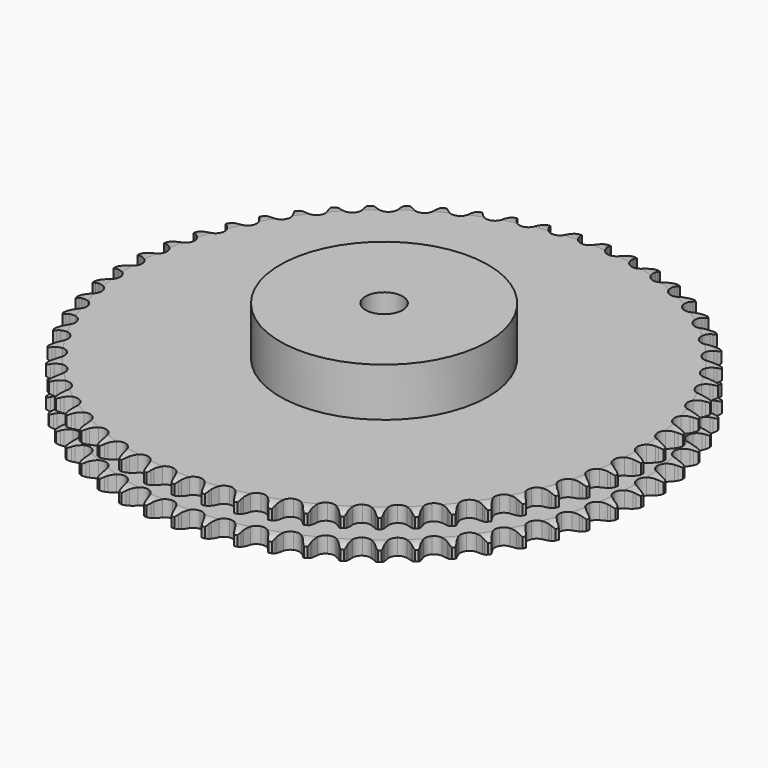
from build123d import *

# Parameters (mm, degrees)
PAD_DEPTH         = 30.3
SKETCH001_R       = 70
PAD001_DEPTH      = 63
SKETCH002_R       = 12.5
POCKET_DEPTH      = 0.001
POCKET_DEPTH_BACK = 63.001


with BuildPart() as part:
    # Sprocket → Pad (new body)
    with BuildSketch(Plane.XY):
        with BuildLine():
            ThreePointArc((-9.860068, 178.71657), (-8.574359, 177.050833), (-7.676953, 175.147575))
            Line((-7.676953, 175.147575), (-7.090891, 173.448908))
            ThreePointArc((-7.090891, 173.448908), (-6.166422, 171.301228), (-4.934356, 169.313973))
            ThreePointArc((-4.934356, 169.313973), (-2.768331, 167.466592), (0, 166.802647))
            ThreePointArc((0, 166.802647), (2.768331, 167.466592), (4.934356, 169.313973))
            ThreePointArc((4.934356, 169.313973), (6.166422, 171.301228), (7.090891, 173.448908))
            Line((7.090891, 173.448908), (7.676953, 175.147575))
            ThreePointArc((7.676953, 175.147575), (8.574359, 177.050833), (9.860068, 178.71657))
            ThreePointArc((9.860068, 178.71657), (10.954728, 176.919504), (11.637314, 174.929076))
            Line((11.637314, 174.929076), (12.032951, 173.176247))
            ThreePointArc((12.032951, 173.176247), (12.715547, 170.939903), (13.721521, 168.829171))
            ThreePointArc((13.721521, 168.829171), (15.671173, 166.754723), (18.349662, 165.790268))
            ThreePointArc((18.349662, 165.790268), (21.174231, 166.145644), (23.530336, 167.743532))
            Line((23.530336, 167.743532), (26.12866, 171.616134))
            ThreePointArc((26.12866, 171.616134), (26.490182, 172.439052), (26.898032, 173.24002))
            ThreePointArc((26.898032, 173.24002), (27.999366, 175.033004), (29.460516, 176.547193))
            ThreePointArc((29.460516, 176.547193), (30.35084, 174.640612), (30.81032, 172.587175))
            Line((30.81032, 172.587175), (31.01073, 170.801461))
            ThreePointArc((31.01073, 170.801461), (31.443167, 168.503599), (32.210838, 166.295013))
            ThreePointArc((32.210838, 166.295013), (33.92045, 164.018676), (36.476585, 162.76542))
            ThreePointArc((36.476585, 162.76542), (39.323104, 162.807913), (41.840691, 164.136912))
            Line((41.840691, 164.136912), (44.849262, 167.700173))
            ThreePointArc((44.849262, 167.700173), (45.299118, 168.478326), (45.792606, 169.229566))
            ThreePointArc((45.792606, 169.229566), (47.084498, 170.890512), (48.703353, 172.234772))
            ThreePointArc((48.703353, 172.234772), (49.378534, 170.24182), (49.60933, 168.150299))
            Line((49.60933, 168.150299), (49.612081, 166.353376))
            ThreePointArc((49.612081, 166.353376), (49.78911, 164.021889), (50.309158, 161.742257))
            ThreePointArc((50.309158, 161.742257), (51.757979, 159.291666), (54.160731, 157.76482))
            ThreePointArc((54.160731, 157.76482), (56.994649, 157.493915), (59.643156, 158.537892))
            Line((59.643156, 158.537892), (63.025455, 161.748559))
            ThreePointArc((63.025455, 161.748559), (63.558184, 162.472501), (64.131319, 163.164894))
            ThreePointArc((64.131319, 163.164894), (65.598088, 164.67364), (67.354998, 165.831654))
            ThreePointArc((67.354998, 165.831654), (67.80684, 163.776523), (67.80615, 161.672306))
            Line((67.80615, 161.672306), (67.611208, 159.885987))
            ThreePointArc((67.611208, 159.885987), (67.53068, 157.549176), (67.796794, 155.226171))
            ThreePointArc((67.796794, 155.226171), (68.967235, 152.63107), (71.187439, 150.849168))
            ThreePointArc((71.187439, 150.849168), (73.974355, 150.268153), (76.721634, 151.014437))
            Line((76.721634, 151.014437), (80.436605, 153.833536))
            ThreePointArc((80.436605, 153.833536), (81.04574, 154.49448), (81.691565, 155.119621))
            ThreePointArc((81.691565, 155.119621), (83.315407, 156.457854), (85.189044, 157.415565))
            ThreePointArc((85.189044, 157.415565), (85.412062, 155.3232), (85.179896, 153.231831))
            Line((85.179896, 153.231831), (84.789627, 151.477799))
            ThreePointArc((84.789627, 151.477799), (84.452519, 149.164029), (84.461468, 146.825848))
            ThreePointArc((84.461468, 146.825848), (85.339324, 144.11774), (87.350028, 142.102412))
            ThreePointArc((87.350028, 142.102412), (90.056113, 141.21834), (92.868815, 141.657871))
            Line((92.868815, 141.657871), (96.871363, 144.051183))
            ThreePointArc((96.871363, 144.051183), (97.54951, 144.641106), (98.260186, 145.191406))
            ThreePointArc((98.260186, 145.191406), (100.021389, 146.342881), (101.98901, 147.088664))
            ThreePointArc((101.98901, 147.088664), (101.980498, 144.984465), (101.519673, 142.931329))
            Line((101.519673, 142.931329), (100.938815, 141.230875))
            ThreePointArc((100.938815, 141.230875), (100.349219, 138.968233), (100.100895, 136.643259))
            ThreePointArc((100.100895, 136.643259), (100.675508, 133.855016), (102.452306, 131.630726))
            ThreePointArc((102.452306, 131.630726), (105.044712, 130.454328), (107.888695, 130.581771))
            Line((107.888695, 130.581771), (112.130234, 132.520244))
            ThreePointArc((112.130234, 132.520244), (112.869161, 133.031984), (113.636062, 133.500764))
            ThreePointArc((113.636062, 133.500764), (115.513247, 134.451504), (117.550968, 134.976306))
            ThreePointArc((117.550968, 134.976306), (117.311028, 132.885814), (116.627138, 130.895834))
            Line((116.627138, 130.895834), (115.862742, 129.2696))
            ThreePointArc((115.862742, 129.2696), (115.027815, 127.085551), (114.525232, 124.802005))
            ThreePointArc((114.525232, 124.802005), (114.789628, 121.967473), (116.310952, 119.561221))
            ThreePointArc((116.310952, 119.561221), (118.75821, 118.106777), (121.598952, 117.920585))
            Line((121.598952, 117.920585), (126.027995, 119.380688))
            ThreePointArc((126.027995, 119.380688), (126.818734, 119.808034), (127.63255, 120.189604))
            ThreePointArc((127.63255, 120.189604), (129.60293, 120.928067), (131.686017, 121.225518))
            ThreePointArc((131.686017, 121.225518), (131.217562, 119.17411), (130.318908, 117.271441))
            Line((130.318908, 117.271441), (129.380252, 115.739167))
            ThreePointArc((129.380252, 115.739167), (128.310129, 113.660223), (127.559388, 111.445825))
            ThreePointArc((127.559388, 111.445825), (127.510357, 108.59941), (128.757741, 106.040404))
            ThreePointArc((128.757741, 106.040404), (131.030145, 104.325569), (133.833162, 103.828002))
            Line((133.833162, 103.828002), (138.395948, 104.792013))
            ThreePointArc((138.395948, 104.792013), (139.228899, 105.129778), (140.079751, 105.419505))
            ThreePointArc((140.079751, 105.419505), (142.11941, 105.936728), (144.222576, 106.003217))
            ThreePointArc((144.222576, 106.003217), (143.531292, 104.015793), (142.428783, 102.223531))
            Line((142.428783, 102.223531), (141.327261, 100.803817))
            ThreePointArc((141.327261, 100.803817), (140.034933, 98.855213), (139.045146, 96.736843))
            ThreePointArc((139.045146, 96.736843), (138.683284, 93.913098), (139.641585, 91.232401))
            ThreePointArc((139.641585, 91.232401), (141.711551, 89.27799), (144.442819, 88.475088))
            Line((144.442819, 88.475088), (149.083961, 88.931304))
            ThreePointArc((149.083961, 88.931304), (149.949013, 89.175388), (150.826574, 89.369756))
            ThreePointArc((150.826574, 89.369756), (152.910752, 89.659461), (155.008468, 89.49418))
            ThreePointArc((155.008468, 89.49418), (154.102747, 87.594866), (152.809766, 85.934767))
            Line((152.809766, 85.934767), (151.558749, 84.644846))
            ThreePointArc((151.558749, 84.644846), (150.059902, 82.850235), (148.843084, 80.853607))
            ThreePointArc((148.843084, 80.853607), (148.172783, 78.086808), (148.830369, 75.316959))
            ThreePointArc((148.830369, 75.316959), (150.67277, 73.146698), (153.299136, 72.048207))
            Line((153.299136, 72.048207), (157.962297, 71.99109))
            ThreePointArc((157.962297, 71.99109), (158.84895, 72.138529), (159.742567, 72.235179))
            ThreePointArc((159.742567, 72.235179), (161.845965, 72.293849), (163.912767, 71.898806))
            ThreePointArc((163.912767, 71.898806), (162.803603, 70.110655), (161.335845, 68.60287))
            Line((161.335845, 68.60287), (159.950519, 67.4584))
            ThreePointArc((159.950519, 67.4584), (158.263347, 65.839567), (156.834268, 63.988917))
            ThreePointArc((156.834268, 63.988917), (155.863665, 61.312649), (156.212554, 58.487272))
            ThreePointArc((156.212554, 58.487272), (157.805027, 56.127503), (160.294609, 54.746758))
            Line((160.294609, 54.746758), (164.923185, 54.177002))
            ThreePointArc((164.923185, 54.177002), (165.820676, 54.226007), (166.719501, 54.223765))
            ThreePointArc((166.719501, 54.223765), (168.816587, 54.050687), (170.827387, 53.430677))
            ThreePointArc((170.827387, 53.430677), (169.528244, 51.775396), (167.903525, 50.438228))
            Line((167.903525, 50.438228), (166.400706, 49.453101))
            ThreePointArc((166.400706, 49.453101), (164.545689, 48.029697), (162.921698, 46.347489))
            ThreePointArc((162.921698, 46.347489), (161.662574, 43.794239), (161.69853, 40.947629))
            ThreePointArc((161.69853, 40.947629), (163.021744, 38.426997), (165.344323, 36.780757))
            Line((165.344323, 36.780757), (169.882128, 35.705278))
            ThreePointArc((169.882128, 35.705278), (170.779563, 35.655254), (171.672687, 35.554147))
            ThreePointArc((171.672687, 35.554147), (173.738005, 35.151424), (175.668394, 34.313972))
            ThreePointArc((175.668394, 34.313972), (174.195041, 32.811654), (172.433084, 31.661334))
            Line((172.433084, 31.661334), (170.831015, 30.847509))
            ThreePointArc((170.831015, 30.847509), (168.83067, 29.63681), (167.031478, 28.143465))
            ThreePointArc((167.031478, 28.143465), (165.499118, 25.744225), (165.221706, 22.910937))
            ThreePointArc((165.221706, 22.910937), (166.259598, 20.260039), (168.386981, 18.368288))
            Line((168.386981, 18.368288), (172.778933, 16.80014))
            ThreePointArc((172.778933, 16.80014), (173.665418, 16.651695), (174.541998, 16.452951))
            ThreePointArc((174.541998, 16.452951), (176.550479, 15.825469), (178.377025, 14.780742))
            ThreePointArc((178.377025, 14.780742), (176.747347, 13.449623), (174.869539, 12.500115))
            Line((174.869539, 12.500115), (173.187666, 11.867469))
            ThreePointArc((173.187666, 11.867469), (171.066275, 10.884173), (169.113723, 9.597817))
            ThreePointArc((169.113723, 9.597817), (167.326727, 7.381712), (166.739313, 4.596137))
            ThreePointArc((166.739313, 4.596137), (167.479286, 1.847152), (169.385648, -0.267147))
            Line((169.385648, -0.267147), (173.578435, -2.308928))
            ThreePointArc((173.578435, -2.308928), (174.44321, -2.553993), (175.292606, -2.847962))
            ThreePointArc((175.292606, -2.847962), (177.219869, -3.692584), (178.9204, -4.931907))
            ThreePointArc((178.9204, -4.931907), (177.154179, -6.075668), (175.183315, -6.81284))
            Line((175.183315, -6.81284), (173.442053, -7.256625))
            ThreePointArc((173.442053, -7.256625), (171.225367, -8.000583), (169.143156, -9.064335))
            ThreePointArc((169.143156, -9.064335), (167.123216, -11.070406), (166.232931, -13.774453))
            ThreePointArc((166.232931, -13.774453), (166.666002, -16.588157), (168.328204, -18.899339))
            Line((168.328204, -18.899339), (172.270931, -21.38997))
            ThreePointArc((172.270931, -21.38997), (173.103497, -21.72868), (173.9154, -22.114305))
            ThreePointArc((173.9154, -22.114305), (175.738049, -23.165815), (177.291924, -24.584688))
            ThreePointArc((177.291924, -24.584688), (175.4106, -25.527209), (173.370603, -26.043095))
            Line((173.370603, -26.043095), (171.591089, -26.292634))
            ThreePointArc((171.591089, -26.292634), (169.306015, -26.788223), (167.11942, -27.616458))
            ThreePointArc((167.11942, -27.616458), (164.891055, -29.388144), (163.708707, -31.977841))
            ThreePointArc((163.708707, -31.977841), (163.829619, -34.822109), (165.227483, -37.30212))
            Line((165.227483, -37.30212), (168.87229, -40.211366))
            ThreePointArc((168.87229, -40.211366), (169.662543, -40.639609), (170.427096, -41.112209))
            ThreePointArc((170.427096, -41.112209), (172.123008, -42.357845), (173.511365, -43.939045))
            ThreePointArc((173.511365, -43.939045), (171.537774, -44.668884), (169.453406, -44.957223))
            Line((169.453406, -44.957223), (167.657241, -45.009486))
            ThreePointArc((167.657241, -45.009486), (165.331517, -45.25069), (163.067081, -45.833355))
            ThreePointArc((163.067081, -45.833355), (160.657341, -47.349149), (159.197281, -49.793061))
            ThreePointArc((159.197281, -49.793061), (159.004565, -52.633367), (160.121124, -55.252102))
            Line((160.121124, -55.252102), (163.423769, -58.54465))
            ThreePointArc((163.423769, -58.54465), (164.162115, -59.057229), (164.870038, -59.611068))
            ThreePointArc((164.870038, -59.611068), (166.418627, -61.035707), (167.624612, -62.760041))
            ThreePointArc((167.624612, -62.760041), (165.582711, -63.26834), (163.479275, -63.325631))
            Line((163.479275, -63.325631), (161.688262, -63.179984))
            ThreePointArc((161.688262, -63.179984), (159.350119, -63.163875), (157.035328, -63.493897))
            ThreePointArc((157.035328, -63.493897), (154.473464, -64.7354), (152.753415, -67.00386))
            ThreePointArc((152.753415, -67.00386), (152.249412, -69.805727), (153.071112, -72.5314))
            Line((153.071112, -72.5314), (155.991505, -76.167282))
            ThreePointArc((155.991505, -76.167282), (156.668982, -76.757973), (157.311681, -77.386329))
            ThreePointArc((157.311681, -77.386329), (158.694149, -78.972679), (159.703124, -80.819216))
            ThreePointArc((159.703124, -80.819216), (157.617699, -81.099803), (155.520726, -80.925351))
            Line((155.520726, -80.925351), (153.756606, -80.583562))
            ThreePointArc((153.756606, -80.583562), (151.434426, -80.310336), (149.09738, -80.383709))
            ThreePointArc((149.09738, -80.383709), (146.414489, -81.335851), (144.45533, -83.401324))
            ThreePointArc((144.45533, -83.401324), (143.646158, -86.130741), (144.163024, -88.930264))
            Line((144.163024, -88.930264), (146.665715, -92.865346))
            ThreePointArc((146.665715, -92.865346), (147.274099, -93.526981), (147.843773, -94.222224))
            ThreePointArc((147.843773, -94.222224), (149.043339, -95.951029), (149.843056, -97.897354))
            ThreePointArc((149.843056, -97.897354), (147.739421, -97.946825), (145.674367, -97.542747))
            Line((145.674367, -97.542747), (143.958553, -97.008965))
            ThreePointArc((143.958553, -97.008965), (141.680525, -96.481938), (139.349591, -96.297772))
            ThreePointArc((139.349591, -96.297772), (136.578239, -96.948995), (134.403753, -98.786408))
            ThreePointArc((134.403753, -98.786408), (133.299233, -101.410244), (133.504992, -104.249635))
            Line((133.504992, -104.249635), (135.559602, -108.43615))
            ThreePointArc((135.559602, -108.43615), (136.091508, -109.160697), (136.581242, -109.914389))
            ThreePointArc((136.581242, -109.914389), (137.583345, -111.764664), (138.164096, -113.787152))
            ThreePointArc((138.164096, -113.787152), (136.067787, -113.604905), (134.059718, -112.976107))
            Line((134.059718, -112.976107), (132.413039, -112.256811))
            ThreePointArc((132.413039, -112.256811), (130.206813, -111.482381), (127.910286, -111.04291))
            ThreePointArc((127.910286, -111.04291), (125.084116, -111.38531), (122.720696, -112.972359))
            ThreePointArc((122.720696, -112.972359), (121.334237, -115.458764), (121.22639, -118.303557))
            Line((121.22639, -118.303557), (122.807979, -122.690687))
            ThreePointArc((122.807979, -122.690687), (123.256951, -123.46935), (123.6608, -124.272343))
            ThreePointArc((123.6608, -124.272343), (124.453275, -126.221627), (124.808011, -128.295727))
            ThreePointArc((124.808011, -128.295727), (122.744474, -127.883975), (120.817766, -127.03809))
            Line((120.817766, -127.03809), (119.260209, -126.142011))
            ThreePointArc((119.260209, -126.142011), (117.152568, -125.129578), (114.918325, -124.440138))
            ThreePointArc((114.918325, -124.440138), (112.07164, -124.469557), (109.547976, -125.786979))
            ThreePointArc((109.547976, -125.786979), (107.896407, -128.105771), (107.476264, -130.921434))
            Line((107.476264, -130.921434), (108.565633, -135.455925))
            ThreePointArc((108.565633, -135.455925), (108.926221, -136.279253), (109.239283, -137.121799))
            ThreePointArc((109.239283, -137.121799), (109.812512, -139.146431), (109.936927, -141.246966))
            ThreePointArc((109.936927, -141.246966), (107.931209, -140.610707), (106.109249, -139.558002))
            Line((106.109249, -139.558002), (104.659722, -138.496018))
            ThreePointArc((104.659722, -138.496018), (102.676249, -137.257872), (100.53141, -136.326831))
            ThreePointArc((100.53141, -136.326831), (97.698767, -136.042913), (95.045492, -137.074715))
            ThreePointArc((95.045492, -137.074715), (93.148861, -139.197747), (92.421522, -141.950102))
            Line((92.421522, -141.950102), (93.005448, -146.576911))
            ThreePointArc((93.005448, -146.576911), (93.273275, -147.43491), (93.49175, -148.306781))
            ThreePointArc((93.49175, -148.306781), (93.838773, -150.382186), (93.731357, -152.483659))
            ThreePointArc((93.731357, -152.483659), (91.807806, -151.630616), (90.112711, -150.383869))
            Line((90.112711, -150.383869), (88.788808, -149.16887))
            ThreePointArc((88.788808, -149.16887), (86.953579, -147.720041), (84.92418, -146.558701))
            ThreePointArc((84.92418, -146.558701), (82.139962, -145.964892), (79.389285, -146.69855))
            ThreePointArc((79.389285, -146.69855), (77.270614, -148.600052), (76.244908, -151.255689))
            Line((76.244908, -151.255689), (76.316303, -155.918653))
            ThreePointArc((76.316303, -155.918653), (76.488117, -156.800907), (76.609353, -157.691521))
            ThreePointArc((76.609353, -157.691521), (76.725958, -159.792504), (76.388015, -161.869406))
            ThreePointArc((76.388015, -161.869406), (74.569981, -160.809934), (73.022326, -159.38428))
            Line((73.022326, -159.38428), (71.840118, -158.031015))
            ThreePointArc((71.840118, -158.031015), (70.175411, -156.389089), (68.286086, -155.011547))
            ThreePointArc((68.286086, -155.011547), (65.58409, -154.115055), (62.769399, -154.541663))
            ThreePointArc((62.769399, -154.541663), (60.454406, -156.198553), (59.142783, -158.725236))
            Line((59.142783, -158.725236), (58.700781, -163.367753))
            ThreePointArc((58.700781, -163.367753), (58.774497, -164.263553), (58.797022, -165.162099))
            ThreePointArc((58.797022, -165.162099), (58.681795, -167.263158), (58.117426, -169.290278))
            ThreePointArc((58.117426, -169.290278), (56.426977, -168.037238), (55.045548, -166.449981))
            Line((55.045548, -166.449981), (54.019387, -164.974878))
            ThreePointArc((54.019387, -164.974878), (52.545408, -163.159786), (50.819091, -161.582763))
            ThreePointArc((50.819091, -161.582763), (48.232116, -160.39447), (45.387578, -160.50885))
            ThreePointArc((45.387578, -160.50885), (42.904364, -161.901015), (41.322746, -164.268073))
            Line((41.322746, -164.268073), (40.372711, -168.83379))
            ThreePointArc((40.372711, -168.83379), (40.347435, -169.732262), (40.270976, -170.627832))
            ThreePointArc((40.270976, -170.627832), (39.925313, -172.703464), (39.14137, -174.656195))
            ThreePointArc((39.14137, -174.656195), (37.599026, -173.224797), (36.400593, -171.495206))
            Line((36.400593, -171.495206), (35.542933, -169.916168))
            ThreePointArc((35.542933, -169.916168), (34.277576, -167.949943), (32.735222, -166.192583))
            ThreePointArc((32.735222, -166.192583), (30.29467, -164.726914), (27.454813, -164.527676))
            ThreePointArc((27.454813, -164.527676), (24.833521, -165.638218), (23.001106, -167.816919))
            Line((23.001106, -167.816919), (21.554571, -172.250413))
            ThreePointArc((21.554571, -172.250413), (21.430609, -173.140652), (21.256094, -174.022375))
            ThreePointArc((21.256094, -174.022375), (20.684193, -176.047383), (19.690191, -177.902023))
            ThreePointArc((19.690191, -177.902023), (18.314673, -176.309642), (17.313783, -174.45871))
            Line((17.313783, -174.45871), (16.635036, -172.794907))
            ThreePointArc((16.635036, -172.794907), (15.593659, -170.701416), (14.253991, -168.78505))
            ThreePointArc((14.253991, -168.78505), (11.989487, -167.059796), (9.188784, -166.54936))
            ThreePointArc((9.188784, -166.54936), (6.461232, -167.364798), (4.400265, -169.328695))
            Line((4.400265, -169.328695), (2.474788, -173.57615))
            ThreePointArc((2.474788, -173.57615), (2.253644, -174.447349), (1.983192, -175.304523))
            ThreePointArc((1.983192, -175.304523), (1.191995, -177.254326), (0, -178.988361))
            ThreePointArc((0, -178.988361), (-1.191995, -177.254326), (-1.983192, -175.304523))
            Line((-1.983192, -175.304523), (-2.474788, -173.57615))
            ThreePointArc((-2.474788, -173.57615), (-3.279543, -171.380804), (-4.400265, -169.328695))
            ThreePointArc((-4.400265, -169.328695), (-6.461232, -167.364798), (-9.188784, -166.54936))
            ThreePointArc((-9.188784, -166.54936), (-11.989487, -167.059796), (-14.253991, -168.78505))
            Line((-14.253991, -168.78505), (-16.635036, -172.794907))
            ThreePointArc((-16.635036, -172.794907), (-16.950676, -173.636491), (-17.313783, -174.45871))
            ThreePointArc((-17.313783, -174.45871), (-18.314673, -176.309642), (-19.690191, -177.902023))
            ThreePointArc((-19.690191, -177.902023), (-20.684193, -176.047383), (-21.256094, -174.022375))
            Line((-21.256094, -174.022375), (-21.554571, -172.250413))
            ThreePointArc((-21.554571, -172.250413), (-22.112935, -169.979862), (-23.001106, -167.816919))
            ThreePointArc((-23.001106, -167.816919), (-24.833521, -165.638218), (-27.454813, -164.527676))
            ThreePointArc((-27.454813, -164.527676), (-30.29467, -164.726914), (-32.735222, -166.192583))
            Line((-32.735222, -166.192583), (-35.542933, -169.916168))
            ThreePointArc((-35.542933, -169.916168), (-35.949239, -170.717921), (-36.400593, -171.495206))
            ThreePointArc((-36.400593, -171.495206), (-37.599026, -173.224797), (-39.14137, -174.656195))
            ThreePointArc((-39.14137, -174.656195), (-39.925313, -172.703464), (-40.270976, -170.627832))
            Line((-40.270976, -170.627832), (-40.372711, -168.83379))
            ThreePointArc((-40.372711, -168.83379), (-40.677907, -166.515595), (-41.322746, -164.268073))
            ThreePointArc((-41.322746, -164.268073), (-42.904364, -161.901015), (-45.387578, -160.50885))
            ThreePointArc((-45.387578, -160.50885), (-48.232116, -160.39447), (-50.819091, -161.582763))
            Line((-50.819091, -161.582763), (-54.019387, -164.974878))
            ThreePointArc((-54.019387, -164.974878), (-54.511426, -165.727067), (-55.045548, -166.449981))
            ThreePointArc((-55.045548, -166.449981), (-56.426977, -168.037238), (-58.117426, -169.290278))
            ThreePointArc((-58.117426, -169.290278), (-58.681795, -167.263158), (-58.797022, -165.162099))
            Line((-58.797022, -165.162099), (-58.700781, -163.367753))
            ThreePointArc((-58.700781, -163.367753), (-58.749104, -161.030054), (-59.142783, -158.725236))
            ThreePointArc((-59.142783, -158.725236), (-60.454406, -156.198553), (-62.769399, -154.541663))
            ThreePointArc((-62.769399, -154.541663), (-65.58409, -154.115055), (-68.286086, -155.011547))
            Line((-68.286086, -155.011547), (-71.840118, -158.031015))
            ThreePointArc((-71.840118, -158.031015), (-72.411918, -158.724511), (-73.022326, -159.38428))
            ThreePointArc((-73.022326, -159.38428), (-74.569981, -160.809934), (-76.388015, -161.869406))
            ThreePointArc((-76.388015, -161.869406), (-76.725958, -159.792504), (-76.609353, -157.691521))
            Line((-76.609353, -157.691521), (-76.316303, -155.918653))
            ThreePointArc((-76.316303, -155.918653), (-76.107167, -153.589826), (-76.244908, -151.255689))
            ThreePointArc((-76.244908, -151.255689), (-77.270614, -148.600052), (-79.389285, -146.69855))
            ThreePointArc((-79.389285, -146.69855), (-82.139962, -145.964892), (-84.92418, -146.558701))
            Line((-84.92418, -146.558701), (-88.788808, -149.16887))
            ThreePointArc((-88.788808, -149.16887), (-89.433428, -149.795255), (-90.112711, -150.383869))
            ThreePointArc((-90.112711, -150.383869), (-91.807806, -151.630616), (-93.731357, -152.483659))
            ThreePointArc((-93.731357, -152.483659), (-93.838773, -150.382186), (-93.49175, -148.306781))
            Line((-93.49175, -148.306781), (-93.005448, -146.576911))
            ThreePointArc((-93.005448, -146.576911), (-92.541391, -144.285226), (-92.421522, -141.950102))
            ThreePointArc((-92.421522, -141.950102), (-93.148861, -139.197747), (-95.045492, -137.074715))
            ThreePointArc((-95.045492, -137.074715), (-97.698767, -136.042913), (-100.53141, -136.326831))
            Line((-100.53141, -136.326831), (-104.659722, -138.496018))
            ThreePointArc((-104.659722, -138.496018), (-105.369337, -139.047687), (-106.109249, -139.558002))
            ThreePointArc((-106.109249, -139.558002), (-107.931209, -140.610707), (-109.936927, -141.246966))
            ThreePointArc((-109.936927, -141.246966), (-109.812512, -139.146431), (-109.239283, -137.121799))
            Line((-109.239283, -137.121799), (-108.565633, -135.455925))
            ThreePointArc((-108.565633, -135.455925), (-107.852289, -133.229199), (-107.476264, -130.921434))
            ThreePointArc((-107.476264, -130.921434), (-107.896407, -128.105771), (-109.547976, -125.786979))
            ThreePointArc((-109.547976, -125.786979), (-112.07164, -124.469557), (-114.918325, -124.440138))
            Line((-114.918325, -124.440138), (-119.260209, -126.142011))
            ThreePointArc((-119.260209, -126.142011), (-120.026205, -126.612268), (-120.817766, -127.03809))
            ThreePointArc((-120.817766, -127.03809), (-122.744474, -127.883975), (-124.808011, -128.295727))
            ThreePointArc((-124.808011, -128.295727), (-124.453275, -126.221627), (-123.6608, -124.272343))
            Line((-123.6608, -124.272343), (-122.807979, -122.690687))
            ThreePointArc((-122.807979, -122.690687), (-121.854006, -120.555949), (-121.22639, -118.303557))
            ThreePointArc((-121.22639, -118.303557), (-121.334237, -115.458764), (-122.720696, -112.972359))
            ThreePointArc((-122.720696, -112.972359), (-125.084116, -111.38531), (-127.910286, -111.04291))
            Line((-127.910286, -111.04291), (-132.413039, -112.256811))
            ThreePointArc((-132.413039, -112.256811), (-133.226118, -112.639948), (-134.059718, -112.976107))
            ThreePointArc((-134.059718, -112.976107), (-136.067787, -113.604905), (-138.164096, -113.787152))
            ThreePointArc((-138.164096, -113.787152), (-137.583345, -111.764664), (-136.581242, -109.914389))
            Line((-136.581242, -109.914389), (-135.559602, -108.43615))
            ThreePointArc((-135.559602, -108.43615), (-134.37658, -106.419314), (-133.504992, -104.249635))
            ThreePointArc((-133.504992, -104.249635), (-133.299233, -101.410244), (-134.403753, -98.786408))
            ThreePointArc((-134.403753, -98.786408), (-136.578239, -96.948995), (-139.349591, -96.297772))
            Line((-139.349591, -96.297772), (-143.958553, -97.008965))
            ThreePointArc((-143.958553, -97.008965), (-144.808846, -97.300331), (-145.674367, -97.542747))
            ThreePointArc((-145.674367, -97.542747), (-147.739421, -97.946825), (-149.843056, -97.897354))
            ThreePointArc((-149.843056, -97.897354), (-149.043339, -95.951029), (-147.843773, -94.222224))
            Line((-147.843773, -94.222224), (-146.665715, -92.865346))
            ThreePointArc((-146.665715, -92.865346), (-145.268004, -90.990892), (-144.163024, -88.930264))
            ThreePointArc((-144.163024, -88.930264), (-143.646158, -86.130741), (-144.45533, -83.401324))
            ThreePointArc((-144.45533, -83.401324), (-146.414489, -81.335851), (-149.09738, -80.383709))
            Line((-149.09738, -80.383709), (-153.756606, -80.583562))
            ThreePointArc((-153.756606, -80.583562), (-154.633791, -80.779621), (-155.520726, -80.925351))
            ThreePointArc((-155.520726, -80.925351), (-157.617699, -81.099803), (-159.703124, -80.819216))
            ThreePointArc((-159.703124, -80.819216), (-158.694149, -78.972679), (-157.311681, -77.386329))
            Line((-157.311681, -77.386329), (-155.991505, -76.167282))
            ThreePointArc((-155.991505, -76.167282), (-154.396072, -74.457964), (-153.071112, -72.5314))
            ThreePointArc((-153.071112, -72.5314), (-152.249412, -69.805727), (-152.753415, -67.00386))
            ThreePointArc((-152.753415, -67.00386), (-154.473464, -64.7354), (-157.035328, -63.493897))
            Line((-157.035328, -63.493897), (-161.688262, -63.179984))
            ThreePointArc((-161.688262, -63.179984), (-162.581691, -63.278355), (-163.479275, -63.325631))
            ThreePointArc((-163.479275, -63.325631), (-165.582711, -63.26834), (-167.624612, -62.760041))
            ThreePointArc((-167.624612, -62.760041), (-166.418627, -61.035707), (-164.870038, -59.611068))
            Line((-164.870038, -59.611068), (-163.423769, -58.54465))
            ThreePointArc((-163.423769, -58.54465), (-161.649981, -57.021218), (-160.121124, -55.252102))
            ThreePointArc((-160.121124, -55.252102), (-159.004565, -52.633367), (-159.197281, -49.793061))
            ThreePointArc((-159.197281, -49.793061), (-160.657341, -47.349149), (-163.067081, -45.833355))
            Line((-163.067081, -45.833355), (-167.657241, -45.009486))
            ThreePointArc((-167.657241, -45.009486), (-168.556069, -45.008976), (-169.453406, -44.957223))
            ThreePointArc((-169.453406, -44.957223), (-171.537774, -44.668884), (-173.511365, -43.939045))
            ThreePointArc((-173.511365, -43.939045), (-172.123008, -42.357845), (-170.427096, -41.112209))
            Line((-170.427096, -41.112209), (-168.87229, -40.211366))
            ThreePointArc((-168.87229, -40.211366), (-166.941678, -38.892311), (-165.227483, -37.30212))
            ThreePointArc((-165.227483, -37.30212), (-163.829619, -34.822109), (-163.708707, -31.977841))
            ThreePointArc((-163.708707, -31.977841), (-164.891055, -29.388144), (-167.11942, -27.616458))
            Line((-167.11942, -27.616458), (-171.591089, -26.292634))
            ThreePointArc((-171.591089, -26.292634), (-172.484405, -26.193248), (-173.370603, -26.043095))
            ThreePointArc((-173.370603, -26.043095), (-175.4106, -25.527209), (-177.291924, -24.584688))
            ThreePointArc((-177.291924, -24.584688), (-175.738049, -23.165815), (-173.9154, -22.114305))
            Line((-173.9154, -22.114305), (-172.270931, -21.38997))
            ThreePointArc((-172.270931, -21.38997), (-170.206929, -20.291304), (-168.328204, -18.899339))
            ThreePointArc((-168.328204, -18.899339), (-166.666002, -16.588157), (-166.232931, -13.774453))
            ThreePointArc((-166.232931, -13.774453), (-167.123216, -11.070406), (-169.143156, -9.064335))
            Line((-169.143156, -9.064335), (-173.442053, -7.256625))
            ThreePointArc((-173.442053, -7.256625), (-174.319014, -7.059571), (-175.183315, -6.81284))
            ThreePointArc((-175.183315, -6.81284), (-177.154179, -6.075668), (-178.9204, -4.931907))
            ThreePointArc((-178.9204, -4.931907), (-177.219869, -3.692584), (-175.292606, -2.847962))
            Line((-175.292606, -2.847962), (-173.578435, -2.308928))
            ThreePointArc((-173.578435, -2.308928), (-171.406098, -1.443988), (-169.385648, -0.267147))
            ThreePointArc((-169.385648, -0.267147), (-167.479286, 1.847152), (-166.739313, 4.596137))
            ThreePointArc((-166.739313, 4.596137), (-167.326727, 7.381712), (-169.113723, 9.597817))
            Line((-169.113723, 9.597817), (-173.187666, 11.867469))
            ThreePointArc((-173.187666, 11.867469), (-174.037627, 12.159801), (-174.869539, 12.500115))
            ThreePointArc((-174.869539, 12.500115), (-176.747347, 13.449623), (-178.377025, 14.780742))
            ThreePointArc((-178.377025, 14.780742), (-176.550479, 15.825469), (-174.541998, 16.452951))
            Line((-174.541998, 16.452951), (-172.778933, 16.80014))
            ThreePointArc((-172.778933, 16.80014), (-170.52463, 17.420856), (-168.386981, 18.368288))
            ThreePointArc((-168.386981, 18.368288), (-166.259598, 20.260039), (-165.221706, 22.910937))
            ThreePointArc((-165.221706, 22.910937), (-165.499118, 25.744225), (-167.031478, 28.143465))
            Line((-167.031478, 28.143465), (-170.831015, 30.847509))
            ThreePointArc((-170.831015, 30.847509), (-171.643658, 31.231569), (-172.433084, 31.661334))
            ThreePointArc((-172.433084, 31.661334), (-174.195041, 32.811654), (-175.668394, 34.313972))
            ThreePointArc((-175.668394, 34.313972), (-173.738005, 35.151424), (-171.672687, 35.554147))
            Line((-171.672687, 35.554147), (-169.882128, 35.705278))
            ThreePointArc((-169.882128, 35.705278), (-167.573223, 36.074234), (-165.344323, 36.780757))
            ThreePointArc((-165.344323, 36.780757), (-163.021744, 38.426997), (-161.69853, 40.947629))
            ThreePointArc((-161.69853, 40.947629), (-161.662574, 43.794239), (-162.921698, 46.347489))
            Line((-162.921698, 46.347489), (-166.400706, 49.453101))
            ThreePointArc((-166.400706, 49.453101), (-167.166168, 49.924228), (-167.903525, 50.438228))
            ThreePointArc((-167.903525, 50.438228), (-169.528244, 51.775396), (-170.827387, 53.430677))
            ThreePointArc((-170.827387, 53.430677), (-168.816587, 54.050687), (-166.719501, 54.223765))
            Line((-166.719501, 54.223765), (-164.923185, 54.177002))
            ThreePointArc((-164.923185, 54.177002), (-162.587705, 54.28972), (-160.294609, 54.746758))
            ThreePointArc((-160.294609, 54.746758), (-157.805027, 56.127503), (-156.212554, 58.487272))
            ThreePointArc((-156.212554, 58.487272), (-155.863665, 61.312649), (-156.834268, 63.988917))
            Line((-156.834268, 63.988917), (-159.950519, 67.4584))
            ThreePointArc((-159.950519, 67.4584), (-160.659507, 68.010874), (-161.335845, 68.60287))
            ThreePointArc((-161.335845, 68.60287), (-162.803603, 70.110655), (-163.912767, 71.898806))
            ThreePointArc((-163.912767, 71.898806), (-161.845965, 72.293849), (-159.742567, 72.235179))
            Line((-159.742567, 72.235179), (-157.962297, 71.99109))
            ThreePointArc((-157.962297, 71.99109), (-155.628592, 71.846203), (-153.299136, 72.048207))
            ThreePointArc((-153.299136, 72.048207), (-150.67277, 73.146698), (-148.830369, 75.316959))
            ThreePointArc((-148.830369, 75.316959), (-148.172783, 78.086808), (-148.843084, 80.853607))
            Line((-148.843084, 80.853607), (-151.558749, 84.644846))
            ThreePointArc((-151.558749, 84.644846), (-152.202658, 85.271961), (-152.809766, 85.934767))
            ThreePointArc((-152.809766, 85.934767), (-154.102747, 87.594866), (-155.008468, 89.49418))
            ThreePointArc((-155.008468, 89.49418), (-152.910752, 89.659461), (-150.826574, 89.369756))
            Line((-150.826574, 89.369756), (-149.083961, 88.931304))
            ThreePointArc((-149.083961, 88.931304), (-146.780359, 88.530569), (-144.442819, 88.475088))
            ThreePointArc((-144.442819, 88.475088), (-141.711551, 89.27799), (-139.641585, 91.232401))
            ThreePointArc((-139.641585, 91.232401), (-138.683284, 93.913098), (-139.045146, 96.736843))
            Line((-139.045146, 96.736843), (-141.327261, 100.803817))
            ThreePointArc((-141.327261, 100.803817), (-141.898274, 101.497962), (-142.428783, 102.223531))
            ThreePointArc((-142.428783, 102.223531), (-143.531292, 104.015793), (-144.222576, 106.003217))
            ThreePointArc((-144.222576, 106.003217), (-142.11941, 105.936728), (-140.079751, 105.419505))
            Line((-140.079751, 105.419505), (-138.395948, 104.792013))
            ThreePointArc((-138.395948, 104.792013), (-136.150411, 104.140295), (-133.833162, 103.828002))
            ThreePointArc((-133.833162, 103.828002), (-131.030145, 104.325569), (-128.757741, 106.040404))
            ThreePointArc((-128.757741, 106.040404), (-127.510357, 108.59941), (-127.559388, 111.445825))
            Line((-127.559388, 111.445825), (-129.380252, 115.739167))
            ThreePointArc((-129.380252, 115.739167), (-129.871437, 116.491914), (-130.318908, 117.271441))
            ThreePointArc((-130.318908, 117.271441), (-131.217562, 119.17411), (-131.686017, 121.225518))
            ThreePointArc((-131.686017, 121.225518), (-129.60293, 120.928067), (-127.63255, 120.189604))
            Line((-127.63255, 120.189604), (-126.027995, 119.380688))
            ThreePointArc((-126.027995, 119.380688), (-123.867782, 118.485899), (-121.598952, 117.920585))
            ThreePointArc((-121.598952, 117.920585), (-118.75821, 118.106777), (-116.310952, 119.561221))
            ThreePointArc((-116.310952, 119.561221), (-114.789628, 121.967473), (-114.525232, 124.802005))
            Line((-114.525232, 124.802005), (-115.862742, 129.2696))
            ThreePointArc((-115.862742, 129.2696), (-116.268137, 130.071813), (-116.627138, 130.895834))
            ThreePointArc((-116.627138, 130.895834), (-117.311028, 132.885814), (-117.550968, 134.976306))
            ThreePointArc((-117.550968, 134.976306), (-115.513247, 134.451504), (-113.636062, 133.500764))
            Line((-113.636062, 133.500764), (-112.130234, 132.520244))
            ThreePointArc((-112.130234, 132.520244), (-110.081565, 131.393244), (-107.888695, 130.581771))
            ThreePointArc((-107.888695, 130.581771), (-105.044712, 130.454328), (-102.452306, 131.630726))
            ThreePointArc((-102.452306, 131.630726), (-100.675508, 133.855016), (-100.100895, 136.643259))
            Line((-100.100895, 136.643259), (-100.938815, 141.230875))
            ThreePointArc((-100.938815, 141.230875), (-101.2535, 142.072816), (-101.519673, 142.931329))
            ThreePointArc((-101.519673, 142.931329), (-101.980498, 144.984465), (-101.98901, 147.088664))
            ThreePointArc((-101.98901, 147.088664), (-100.021389, 146.342881), (-98.260186, 145.191406))
            Line((-98.260186, 145.191406), (-96.871363, 144.051183))
            ThreePointArc((-96.871363, 144.051183), (-94.959108, 142.705653), (-92.868815, 141.657871))
            ThreePointArc((-92.868815, 141.657871), (-90.056113, 141.21834), (-87.350028, 142.102412))
            ThreePointArc((-87.350028, 142.102412), (-85.339324, 144.11774), (-84.461468, 146.825848))
            Line((-84.461468, 146.825848), (-84.789627, 151.477799))
            ThreePointArc((-84.789627, 151.477799), (-85.009782, 152.349248), (-85.179896, 153.231831))
            ThreePointArc((-85.179896, 153.231831), (-85.412062, 155.3232), (-85.189044, 157.415565))
            ThreePointArc((-85.189044, 157.415565), (-83.315407, 156.457854), (-81.691565, 155.119621))
            Line((-81.691565, 155.119621), (-80.436605, 153.833536))
            ThreePointArc((-80.436605, 153.833536), (-78.683975, 152.285809), (-76.721634, 151.014437))
            ThreePointArc((-76.721634, 151.014437), (-73.974355, 150.268153), (-71.187439, 150.849168))
            ThreePointArc((-71.187439, 150.849168), (-68.967235, 152.63107), (-67.796794, 155.226171))
            Line((-67.796794, 155.226171), (-67.611208, 159.885987))
            ThreePointArc((-67.611208, 159.885987), (-67.73416, 160.776366), (-67.80615, 161.672306))
            ThreePointArc((-67.80615, 161.672306), (-67.80684, 163.776523), (-67.354998, 165.831654))
            ThreePointArc((-67.354998, 165.831654), (-65.598088, 164.67364), (-64.131319, 163.164894))
            Line((-64.131319, 163.164894), (-63.025455, 161.748559))
            ThreePointArc((-63.025455, 161.748559), (-61.453726, 160.017421), (-59.643156, 158.537892))
            ThreePointArc((-59.643156, 158.537892), (-56.994649, 157.493915), (-54.160731, 157.76482))
            ThreePointArc((-54.160731, 157.76482), (-51.757979, 159.291666), (-50.309158, 161.742257))
            Line((-50.309158, 161.742257), (-49.612081, 166.353376))
            ThreePointArc((-49.612081, 166.353376), (-49.636338, 167.251877), (-49.60933, 168.150299))
            ThreePointArc((-49.60933, 168.150299), (-49.378534, 170.24182), (-48.703353, 172.234772))
            ThreePointArc((-48.703353, 172.234772), (-47.084498, 170.890512), (-45.792606, 169.229566))
            Line((-45.792606, 169.229566), (-44.849262, 167.700173))
            ThreePointArc((-44.849262, 167.700173), (-43.477512, 165.806639), (-41.840691, 164.136912))
            ThreePointArc((-41.840691, 164.136912), (-39.323104, 162.807913), (-36.476585, 162.76542))
            ThreePointArc((-36.476585, 162.76542), (-33.92045, 164.018676), (-32.210838, 166.295013))
            Line((-32.210838, 166.295013), (-31.01073, 170.801461))
            ThreePointArc((-31.01073, 170.801461), (-30.935997, 171.697176), (-30.81032, 172.587175))
            ThreePointArc((-30.81032, 172.587175), (-30.35084, 174.640612), (-29.460516, 176.547193))
            ThreePointArc((-29.460516, 176.547193), (-27.999366, 175.033004), (-26.898032, 173.24002))
            Line((-26.898032, 173.24002), (-26.12866, 171.616134))
            ThreePointArc((-26.12866, 171.616134), (-24.973539, 169.583189), (-23.530336, 167.743532))
            ThreePointArc((-23.530336, 167.743532), (-21.174231, 166.145644), (-18.349662, 165.790268))
            ThreePointArc((-18.349662, 165.790268), (-15.671173, 166.754723), (-13.721521, 168.829171))
            Line((-13.721521, 168.829171), (-12.032951, 173.176247))
            ThreePointArc((-12.032951, 173.176247), (-11.860136, 174.058305), (-11.637314, 174.929076))
            ThreePointArc((-11.637314, 174.929076), (-10.954728, 176.919504), (-9.860068, 178.71657))
        make_face()
    extrude(amount=PAD_DEPTH)

    # Sketch → Groove (revolve, cut)
    with BuildSketch(Plane.XZ):
        with BuildLine():
            ThreePointArc((169.214719, 0), (173.573618, 0.506758), (177.7, 2))
            Line((177.7, 2), (177.7, 8.8))
            ThreePointArc((177.7, 8.8), (173.573618, 10.293242), (169.214719, 10.8))
            Line((70, 10.8), (169.214719, 10.8))
            Line((70, 19.5), (70, 10.8))
            Line((169.214719, 19.5), (70, 19.5))
            ThreePointArc((169.214719, 19.5), (173.573618, 20.006758), (177.7, 21.5))
            Line((177.7, 21.5), (177.7, 28.3))
            ThreePointArc((177.7, 28.3), (173.573618, 29.793242), (169.214719, 30.3))
            Line((169.214719, 30.3), (187.7, 30.3))
            Line((187.7, 30.3), (187.7, 0))
            Line((169.214719, 0), (187.7, 0))
        make_face()
    revolve(axis=Axis((0, 0, 0), (0, 0, 1)), mode=Mode.SUBTRACT)

    # Sketch001 → Pad001 (join)
    with BuildSketch(Plane.XY):
        Circle(SKETCH001_R)
    extrude(amount=PAD001_DEPTH)

    # Sketch002 → Pocket (cut, two sides)
    with BuildSketch(Plane.XY) as pocket_sk:
        Circle(SKETCH002_R)
    extrude(amount=-POCKET_DEPTH, mode=Mode.SUBTRACT)
    extrude(pocket_sk.sketch, amount=POCKET_DEPTH_BACK, mode=Mode.SUBTRACT)


solid = part.part
